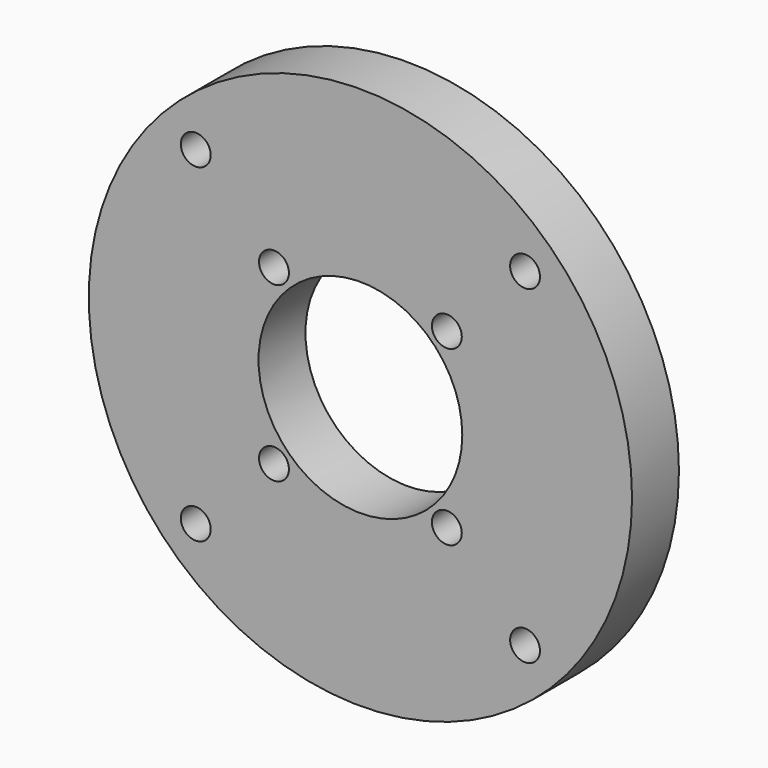
from build123d import *

# Parameters (mm, degrees)
F0_R     = 20
F0_R_2   = 1.1
F0_R_3   = 7.5
F1_DEPTH = 4.318


with BuildPart() as f1:
    # F0 (on Front) → F1 (new body)
    with BuildSketch(Plane.XZ):
        Circle(F0_R)
        with Locations((-12.123346, -12.123346)):
            Circle(F0_R_2, mode=Mode.SUBTRACT)
        with Locations((-6.363961, -6.363961)):
            Circle(F0_R_2, mode=Mode.SUBTRACT)
        with Locations((12.123346, -12.123346)):
            Circle(F0_R_2, mode=Mode.SUBTRACT)
        with Locations((6.363961, -6.363961)):
            Circle(F0_R_2, mode=Mode.SUBTRACT)
        with Locations((-6.363961, 6.363961)):
            Circle(F0_R_2, mode=Mode.SUBTRACT)
        with Locations((-12.123346, 12.123346)):
            Circle(F0_R_2, mode=Mode.SUBTRACT)
        Circle(F0_R_3, mode=Mode.SUBTRACT)
        with Locations((6.363961, 6.363961)):
            Circle(F0_R_2, mode=Mode.SUBTRACT)
        with Locations((12.123346, 12.123346)):
            Circle(F0_R_2, mode=Mode.SUBTRACT)
    extrude(amount=F1_DEPTH)


solid = f1.part
